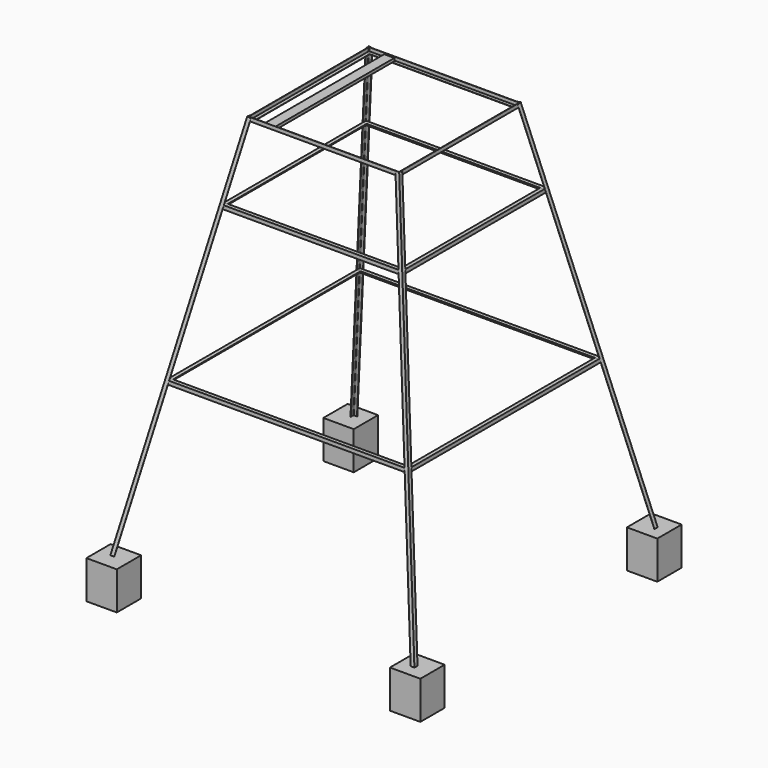
from build123d import *

# Parameters (mm, degrees)
F9_DEPTH      = 5200
F9_DEPTH_BACK = 500
F11_DEPTH     = 1586
F12_DEPTH     = 1183
F13_DEPTH     = 981
F17_W         = 245.8925962448
F17_H         = 198.7823963165
F18_DEPTH     = 500
F19_COUNT     = 4
F20_W         = 133.35
F20_H         = 38.1
F21_DEPTH     = 975


with BuildPart() as f9:
    # F8 (on line) → F9 (new body, two sides)
    with BuildSketch(Plane(origin=(-148.1481481481, -148.1481481481, -740.7407407407), x_dir=(0.9813067629, -0.0377425678, -0.188712839), z_dir=(-0.1924500897, -0.1924500897, -0.9622504486))) as f9_sk:
        with BuildLine():
            Line((-1837.128390241, 1961.1613513818), (-1887.128390241, 1961.1613513818))
            Line((-1887.128390241, 1961.1613513818), (-1887.128390241, 1911.1613513818))
            ThreePointArc((-1887.128390241, 1911.1613513818), (-1884.5474504897, 1912.2304116305), (-1883.478390241, 1914.8113513818))
            Line((-1883.478390241, 1914.8113513818), (-1883.478390241, 1952.5113513818))
            ThreePointArc((-1883.478390241, 1952.5113513818), (-1882.0139241469, 1956.0468852878), (-1878.478390241, 1957.5113513818))
            Line((-1878.478390241, 1957.5113513818), (-1840.778390241, 1957.5113513818))
            ThreePointArc((-1840.778390241, 1957.5113513818), (-1838.1974504897, 1958.5804116305), (-1837.128390241, 1961.1613513818))
        make_face()
    extrude(amount=-F9_DEPTH)
    extrude(f9_sk.sketch, amount=F9_DEPTH_BACK)


with BuildPart() as f11:
    # F10 (on Front) → F11 (new body, symmetric)
    with BuildSketch(Plane.XZ):
        Polygon((-1541.0420585105, 2000), (-1591.0420585105, 2000), (-1591.0420585105, 1950), (-1587.5420585105, 1950), (-1587.5420585105, 1996.5), (-1541.0420585105, 1996.5), align=None)
    extrude(amount=F11_DEPTH, both=True)


with BuildPart() as f12:
    # F10 (on Front) → F12 (new body, symmetric)
    with BuildSketch(Plane.XZ):
        Polygon((-1141.0420585105, 4000), (-1191.0420585105, 4000), (-1191.0420585105, 3950), (-1187.5420585105, 3950), (-1187.5420585105, 3996.5), (-1141.0420585105, 3996.5), align=None)
    extrude(amount=F12_DEPTH, both=True)


with BuildPart() as f13:
    # F10 (on Front) → F13 (new body, symmetric)
    with BuildSketch(Plane.XZ):
        Polygon((-991.0420585105, 5000), (-991.0420585105, 4950), (-941.0420585105, 4950), (-941.0420585105, 4953.5), (-987.5420585105, 4953.5), (-987.5420585105, 5000), align=None)
    extrude(amount=F13_DEPTH, both=True)


with BuildPart() as f18:
    # F17 (on face) → F18 (new body)
    with BuildSketch(Plane.XY):
        with Locations((-1877.0537018776, -1900.6088018417)):
            Rectangle(F17_W, F17_H)
        Polygon((-2000, -1801.2176036835), (-2154.1074037552, -1801.2176036835), (-2154.1074037552, -2201.2176036835), (-1754.1074037552, -2201.2176036835), (-1754.1074037552, -2000), (-2000, -2000), align=None)
    extrude(amount=-F18_DEPTH)


with BuildPart() as f19_1:
    # F19: instance of F18
    add(f18.part.rotate(Axis((0, 0, 2283.5911512375), (0, 0, 1)), 1 * 360 / F19_COUNT))


with BuildPart() as f19_2:
    # F19: instance of F18
    add(f18.part.rotate(Axis((0, 0, 2283.5911512375), (0, 0, 1)), 2 * 360 / F19_COUNT))


with BuildPart() as f19_3:
    # F19: instance of F18
    add(f18.part.rotate(Axis((0, 0, 2283.5911512375), (0, 0, 1)), 3 * 360 / F19_COUNT))


with BuildPart() as f19_4:
    # F19: instance of F9
    add(f9.part.rotate(Axis((0, 0, 2283.5911512375), (0, 0, 1)), 1 * 360 / F19_COUNT))


with BuildPart() as f19_5:
    # F19: instance of F9
    add(f9.part.rotate(Axis((0, 0, 2283.5911512375), (0, 0, 1)), 2 * 360 / F19_COUNT))


with BuildPart() as f19_6:
    # F19: instance of F9
    add(f9.part.rotate(Axis((0, 0, 2283.5911512375), (0, 0, 1)), 3 * 360 / F19_COUNT))


with BuildPart() as f19_7:
    # F19: instance of F11
    add(f11.part.rotate(Axis((0, 0, 2283.5911512375), (0, 0, 1)), 1 * 360 / F19_COUNT))


with BuildPart() as f19_8:
    # F19: instance of F11
    add(f11.part.rotate(Axis((0, 0, 2283.5911512375), (0, 0, 1)), 2 * 360 / F19_COUNT))


with BuildPart() as f19_9:
    # F19: instance of F11
    add(f11.part.rotate(Axis((0, 0, 2283.5911512375), (0, 0, 1)), 3 * 360 / F19_COUNT))


with BuildPart() as f19_10:
    # F19: instance of F12
    add(f12.part.rotate(Axis((0, 0, 2283.5911512375), (0, 0, 1)), 1 * 360 / F19_COUNT))


with BuildPart() as f19_11:
    # F19: instance of F12
    add(f12.part.rotate(Axis((0, 0, 2283.5911512375), (0, 0, 1)), 2 * 360 / F19_COUNT))


with BuildPart() as f19_12:
    # F19: instance of F12
    add(f12.part.rotate(Axis((0, 0, 2283.5911512375), (0, 0, 1)), 3 * 360 / F19_COUNT))


with BuildPart() as f19_13:
    # F19: instance of F13
    add(f13.part.rotate(Axis((0, 0, 2283.5911512375), (0, 0, 1)), 1 * 360 / F19_COUNT))


with BuildPart() as f19_14:
    # F19: instance of F13
    add(f13.part.rotate(Axis((0, 0, 2283.5911512375), (0, 0, 1)), 2 * 360 / F19_COUNT))


with BuildPart() as f19_15:
    # F19: instance of F13
    add(f13.part.rotate(Axis((0, 0, 2283.5911512375), (0, 0, 1)), 3 * 360 / F19_COUNT))


with BuildPart() as f21:
    # F20 (on Front) → F21 (new body, symmetric)
    with BuildSketch(Plane.XZ):
        with Locations((-710.2534107909, 4972.55)):
            Rectangle(F20_W, F20_H)
    extrude(amount=F21_DEPTH, both=True)


solid = Compound([f9.part, f11.part, f12.part, f13.part, f18.part, f19_1.part, f19_2.part, f19_3.part, f19_4.part, f19_5.part, f19_6.part, f19_7.part, f19_8.part, f19_9.part, f19_10.part, f19_11.part, f19_12.part, f19_13.part, f19_14.part, f19_15.part, f21.part])
